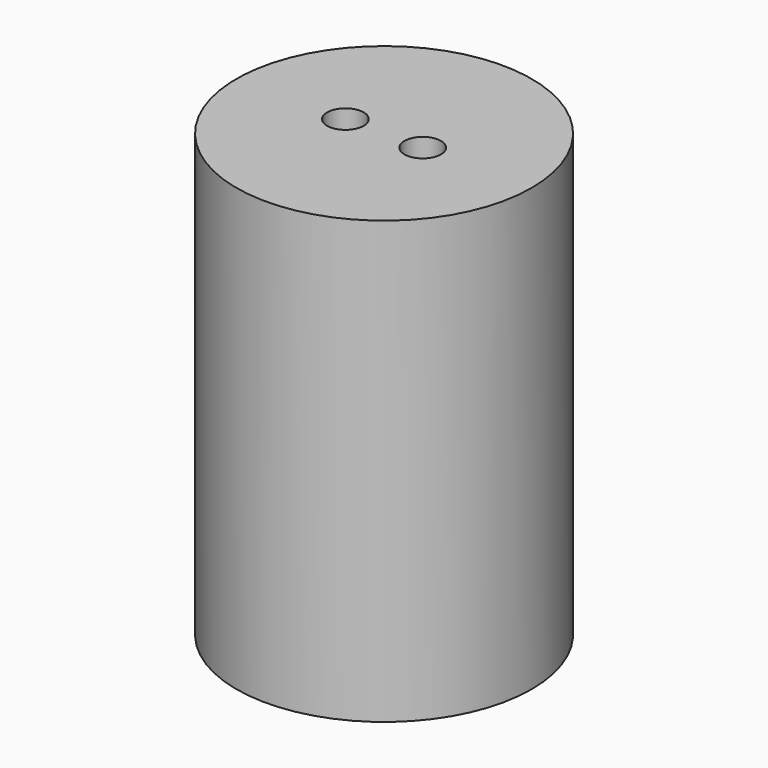
from build123d import *

# Parameters (mm, degrees)
SKETCH_R     = 4.85
PAD_DEPTH    = 14.5
SKETCH001_R  = 0.6
POCKET_DEPTH = 14.501


with BuildPart() as part:
    # Sketch → Pad (new body)
    with BuildSketch(Plane.XY):
        Circle(SKETCH_R)
    extrude(amount=PAD_DEPTH)

    # Sketch001 (on Face3 of Pad) → Pocket (cut, through all)
    with BuildSketch(Plane.XY.offset(14.5)):
        with Locations((-1.27, 0)):
            Circle(SKETCH001_R)
        with Locations((1.27, 0)):
            Circle(SKETCH001_R)
    extrude(amount=-POCKET_DEPTH, mode=Mode.SUBTRACT)


solid = part.part
